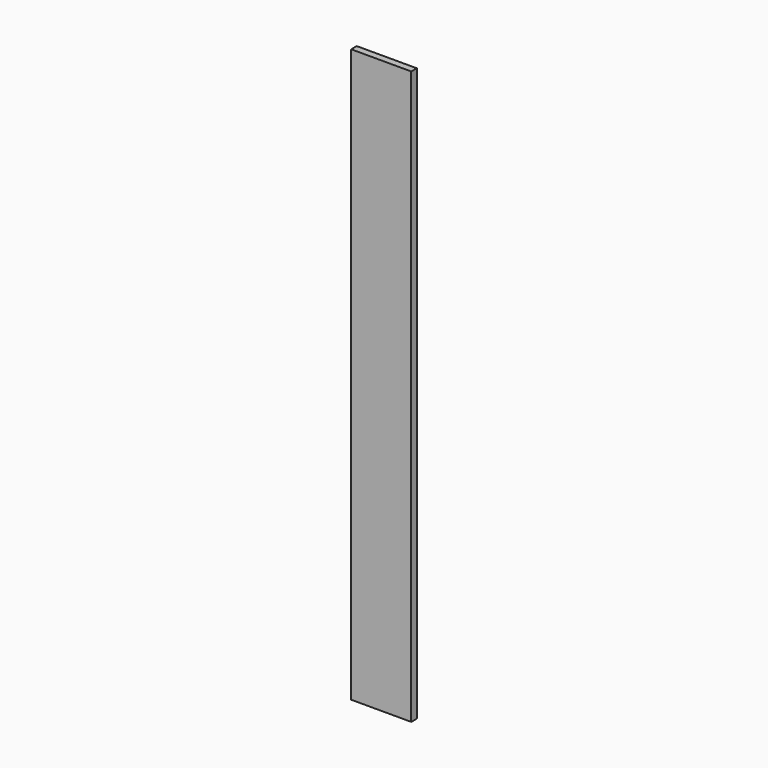
from build123d import *

# Parameters (mm, degrees)
F0_W     = 165.1
F0_H     = 1574.8
F1_DEPTH = 19.05


with BuildPart() as f1:
    # F0 (on Front) → F1 (new body)
    with BuildSketch(Plane.XZ):
        with Locations((91.0165436298, 744.7802165687)):
            Rectangle(F0_W, F0_H)
        with Locations((91.0165436298, 744.7802165687)):
            Rectangle(F0_W, F0_H)
    extrude(amount=F1_DEPTH)


with BuildPart() as f2_1:
    # F2: copy of F1
    add(f1.part)


solid = Compound([f1.part, f2_1.part])
